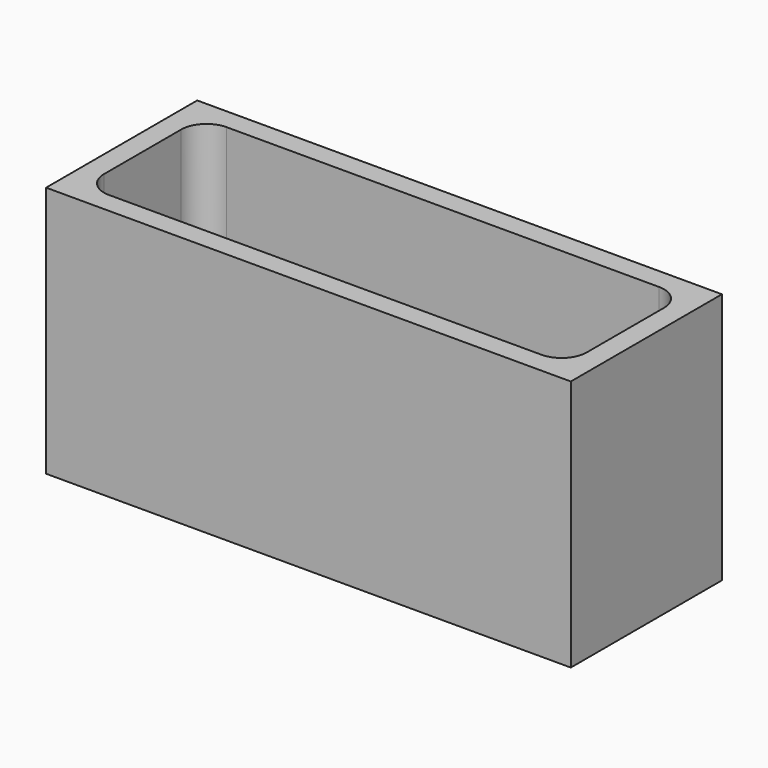
from build123d import *

# Parameters (mm, degrees)
F0_W     = 79.375
F0_H     = 28.575
F1_DEPTH = 6.35
F2_W     = 79.375
F2_H     = 28.575
F2_W_2   = 73.025
F2_H_2   = 22.225
F3_DEPTH = 31.75
F4_R     = 3.81


with BuildPart() as f1:
    # F0 (on Top) → F1 (new body)
    with BuildSketch(Plane.XY):
        Rectangle(F0_W, F0_H)
    extrude(amount=F1_DEPTH)

    # F2 (on face) → F3 (join)
    with BuildSketch(Plane.XY.offset(6.35)):
        Rectangle(F2_W, F2_H)
        Rectangle(F2_W_2, F2_H_2, mode=Mode.SUBTRACT)
    extrude(amount=F3_DEPTH)

    # F4
    f4_edges = [f1.edges().sort_by_distance(p)[0] for p in [
        (0, -11.1125, 6.35),
        (-36.5125, 0, 6.35),
        (0, 11.1125, 6.35),
        (36.5125, 0, 6.35),
        (36.5125, 11.1125, 22.225),
        (36.5125, -11.1125, 22.225),
        (-36.5125, -11.1125, 22.225),
        (-36.5125, 11.1125, 22.225),
    ]]
    fillet(f4_edges, radius=F4_R)


solid = f1.part
